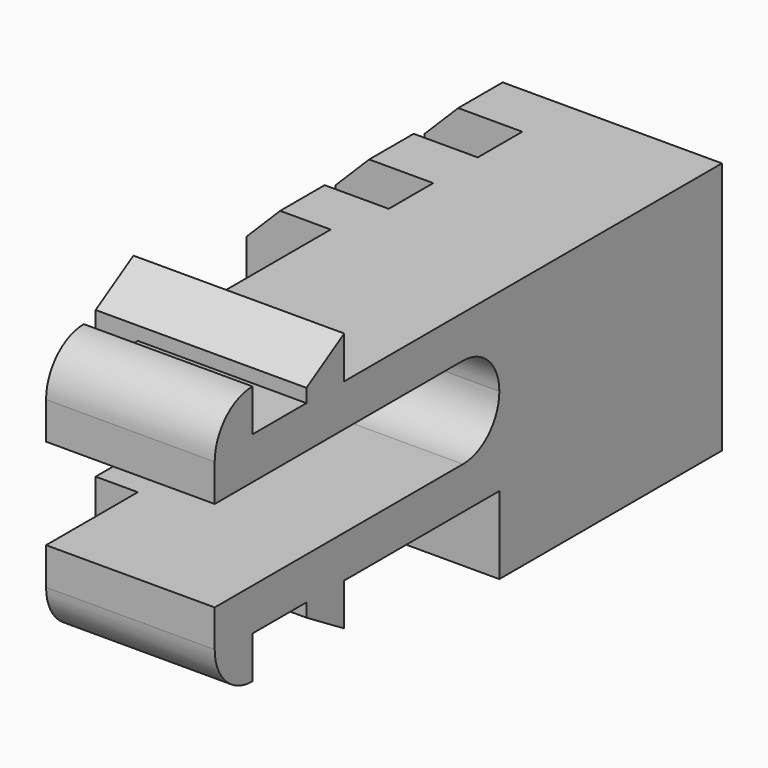
from build123d import *

# Parameters (mm, degrees)
PAD017_DEPTH              = 5
PAD020_DEPTH              = 6.25
SKETCH109_W               = 7.5
SKETCH109_H               = 1.65
PAD078_DEPTH              = 7.5
SKETCH107_W               = 2.1
SKETCH107_H               = 1.65
PAD079_DEPTH              = 7.5
SKETCH106_W               = 7.5
SKETCH106_H               = 1.65
PAD080_DEPTH              = 4.6
SKETCH108_W               = 7.5
SKETCH108_H               = 1.65
PAD081_DEPTH              = 7.5
LINEARPATTERN025_COUNT    = 2
LINEARPATTERN025_PITCH    = 3.3
CHAMFER015_SIZE           = 1
MIRROR013_PLACEMENT_ANGLE = 90


with BuildPart() as obj1:
    # Sketch034 → Pad017 (new body)
    with BuildSketch(Plane.XY):
        with BuildLine():
            Line((-1.35, -1.8), (-1.35, 6))
            ThreePointArc((0, 7.35), (-0.954594, 6.954594), (-1.35, 6))
            Line((0, 9), (0, 7.35))
            Line((-2.6, 9), (0, 9))
            Line((-2.6, -1.8), (-2.6, 9))
            Line((-3.85, -1.8), (-2.6, -1.8))
            ThreePointArc((-3.85, -1.8), (-3.439949, -2.789949), (-2.45, -3.2))
            Line((-1.35, -3.2), (-2.45, -3.2))
            Line((-1.35, -1.8), (-1.35, -3.2))
        make_face()
    extrude(amount=PAD017_DEPTH)

    # Sketch037 → Pad020 (join)
    with BuildSketch(Plane.XY):
        Polygon((-1.35, 0.2), (-1.35, 1.6), (-2.6, 1.6), (-3.85, 1.6), (-3, 0.2), (-2.6, 0.2), align=None)
    extrude(amount=PAD020_DEPTH)


with BuildPart() as obj2:
    # Mirror001: instance of _obj1
    add(obj1.part.mirror(Plane(origin=(0, 0, 0), x_dir=(0, 1, 0), z_dir=(-1, 0, 0))))


with BuildPart() as body040:
    # Fusion001 base: copy of _obj1
    add(obj1.part)

    # Fusion001: union _obj2)
    add(obj2.part)

    # Sketch109 → Pad078 (new body)
    with BuildSketch(Plane.XY):
        with Locations((1.15, 8.175)):
            Rectangle(SKETCH109_W, SKETCH109_H)
    extrude(amount=PAD078_DEPTH)

    # Sketch107 → Pad079 (join)
    with BuildSketch(Plane.XY):
        with Locations((3.85, 9.825)):
            Rectangle(SKETCH107_W, SKETCH107_H)
    pad079 = extrude(amount=PAD079_DEPTH)

    # Sketch106 → Pad080 (join)
    with BuildSketch(Plane.XY):
        with Locations((1.15, 9.825)):
            Rectangle(SKETCH106_W, SKETCH106_H)
    pad080 = extrude(amount=PAD080_DEPTH)

    # Sketch108 → Pad081 (join)
    with BuildSketch(Plane.XY):
        with Locations((1.15, 11.475)):
            Rectangle(SKETCH108_W, SKETCH108_H)
    pad081 = extrude(amount=PAD081_DEPTH)

    # LinearPattern025: Pad081, Pad080, Pad079 ×2
    with Locations(*[(0, i * LINEARPATTERN025_PITCH, 0) for i in range(1, LINEARPATTERN025_COUNT)]):
        add(pad081)
        add(pad080)
        add(pad079)

    # Chamfer015
    chamfer015_edges = [body040.edges().sort_by_distance(p)[0] for p in [
        (-2.6, 14.775, 7.5),
        (-2.6, 11.475, 7.5),
        (-2.6, 8.175, 7.5),
    ]]
    chamfer(chamfer015_edges, length=CHAMFER015_SIZE)


with BuildPart() as mirror013:
    # Mirror013: instance of Body040
    add(body040.part.mirror(Plane(origin=(0, 0, 0), x_dir=(0, -1, 0), z_dir=(1, 0, 0))))


with BuildPart() as mirror013_1:
    # Mirror013 placement: moved
    add(mirror013.part.moved(Location((2.5, 0, 5))).rotate(Axis((2.5, 0, 5), (0, -1, 0)), MIRROR013_PLACEMENT_ANGLE))


solid = mirror013_1.part
